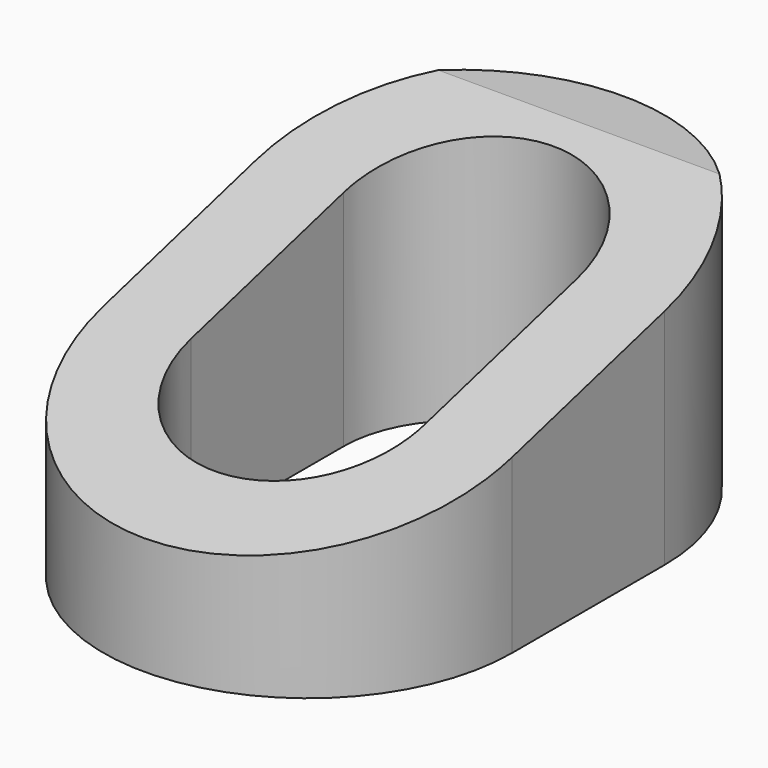
from build123d import *

# Parameters (mm, degrees)
F1_DEPTH = 9
F5_W     = 42.8709182888
F5_H     = 32.7420830727
F6_DEPTH = 13


with BuildPart() as f1:
    # F0 (on Top) → F1 (new body)
    with BuildSketch(Plane.XY):
        with BuildLine():
            ThreePointArc((-6.9900002831, -3.26), (0, -10.2500002831), (6.9900002831, -3.26))
            Line((6.9900002831, -3.26), (6.9900002831, 0))
            Line((6.9900002831, 0), (6.9900002831, 3.26))
            ThreePointArc((6.9900002831, 3.26), (0, 10.2500002831), (-6.9900002831, 3.26))
            Line((-6.9900002831, 3.26), (-6.9900002831, 0))
            Line((-6.9900002831, 0), (-6.9900002831, -3.26))
        make_face()
        with BuildLine():
            ThreePointArc((-3.99, 3.26), (0, 7.25), (3.99, 3.26))
            Line((3.99, 3.26), (3.99, 0))
            Line((3.99, 0), (3.99, -3.26))
            ThreePointArc((3.99, -3.26), (0, -7.25), (-3.99, -3.26))
            Line((-3.99, -3.26), (-3.99, 0))
            Line((-3.99, 0), (-3.99, 3.26))
        make_face(mode=Mode.SUBTRACT)
    extrude(amount=F1_DEPTH)

    # F5 (on offset) → F6 (cut)
    with BuildSketch(Plane(origin=(0, -5.0565690429, 18.8713725799), x_dir=(1, 0, 0), z_dir=(0, -0.2588190451, 0.9659258263))):
        with Locations((-1.5699611977, 4.9039889127)):
            Rectangle(F5_W, F5_H)
    extrude(amount=-F6_DEPTH, mode=Mode.SUBTRACT)


solid = f1.part
